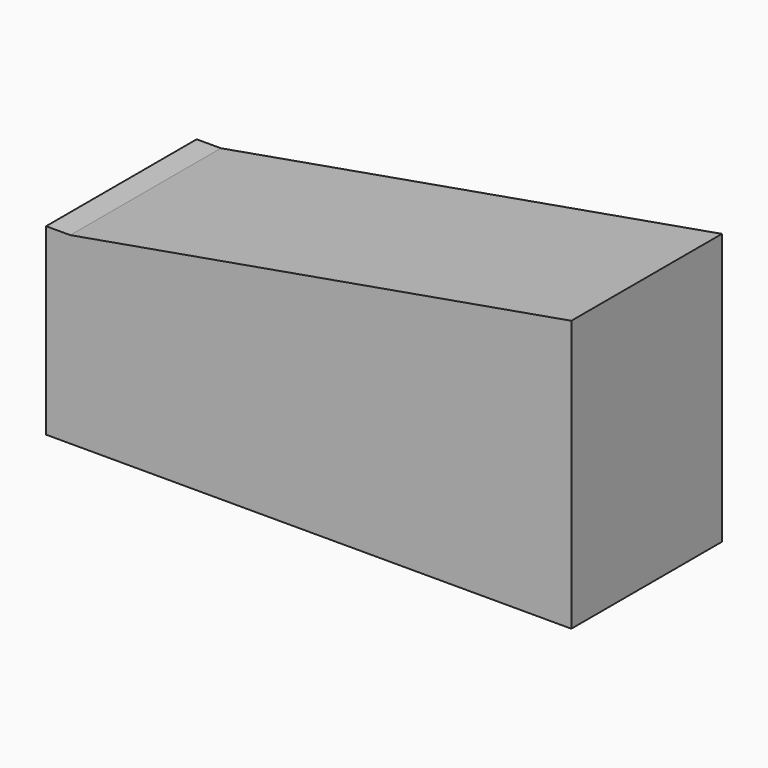
from build123d import *

# Parameters (mm, degrees)
F0_W     = 609.6
F0_H     = 4.916123
F0_H_2   = 203.2
F1_DEPTH = 218.44


with BuildPart() as f1:
    # F0 (on Front) → F1 (new body)
    with BuildSketch(Plane.XZ):
        with Locations((0, -104.058061)):
            Rectangle(F0_W, F0_H)
        Rectangle(F0_W, F0_H_2)
        Polygon((-304.8, 101.6), (304.8, 101.6), (304.8, 106.516123), (-276.664647, 106.516123), align=None)
        Polygon((-304.8, 106.516123), (-304.8, 101.6), (-276.664647, 106.516123), align=None)
        Polygon((-276.664647, 106.516123), (304.8, 106.516123), (304.8, 208.116123), align=None)
    extrude(amount=F1_DEPTH)


solid = f1.part
